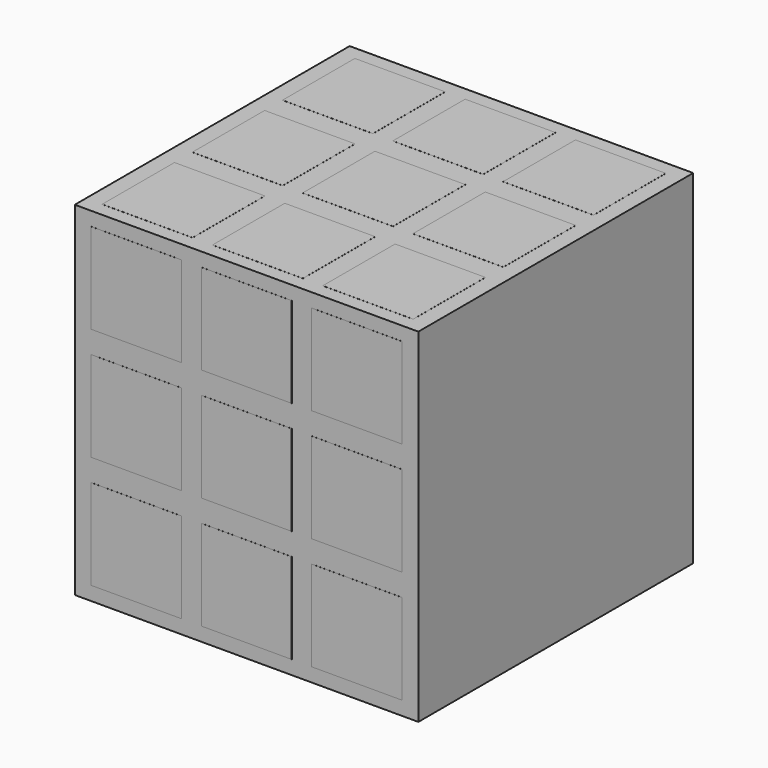
from build123d import *

# Parameters (mm, degrees)
F0_W     = 57
F0_H     = 57
F1_DEPTH = 57
F2_W     = 15
F2_H     = 15
F3_DEPTH = 0.01
F4_W     = 15
F4_H     = 15
F5_DEPTH = 0.01
F6_W     = 15
F6_H     = 15
F7_DEPTH = 0.01


with BuildPart() as f1:
    # F0 (on Front) → F1 (new body)
    with BuildSketch(Plane.XZ):
        with Locations((-29.06329, -5.599806)):
            Rectangle(F0_W, F0_H)
    extrude(amount=F1_DEPTH)

    # F2 (on face) → F3 (join)
    with BuildSketch(Plane.XY.offset(22.900194)):
        with Locations((-10.76329, -9.8)):
            Rectangle(F2_W, F2_H)
        with Locations((-10.76329, -28.5)):
            Rectangle(F2_W, F2_H)
        with Locations((-10.76329, -47.2)):
            Rectangle(F2_W, F2_H)
        with Locations((-29.06329, -47.2)):
            Rectangle(F2_W, F2_H)
        with Locations((-29.06329, -28.5)):
            Rectangle(F2_W, F2_H)
        with Locations((-29.06329, -9.8)):
            Rectangle(F2_W, F2_H)
        with Locations((-47.36329, -47.2)):
            Rectangle(F2_W, F2_H)
        with Locations((-47.36329, -28.5)):
            Rectangle(F2_W, F2_H)
        with Locations((-47.36329, -9.8)):
            Rectangle(F2_W, F2_H)
    extrude(amount=F3_DEPTH)

    # F4 (on face) → F5 (join)
    with BuildSketch(Plane.XZ.offset(57)):
        with Locations((-10.76329, 13.100194)):
            Rectangle(F4_W, F4_H)
        with Locations((-10.76329, -5.599806)):
            Rectangle(F4_W, F4_H)
        with Locations((-10.76329, -24.299806)):
            Rectangle(F4_W, F4_H)
        with Locations((-29.06329, -24.299806)):
            Rectangle(F4_W, F4_H)
        with Locations((-29.06329, -5.599806)):
            Rectangle(F4_W, F4_H)
        with Locations((-29.06329, 13.100194)):
            Rectangle(F4_W, F4_H)
        with Locations((-47.36329, -24.299806)):
            Rectangle(F4_W, F4_H)
        with Locations((-47.36329, -5.599806)):
            Rectangle(F4_W, F4_H)
        with Locations((-47.36329, 13.100194)):
            Rectangle(F4_W, F4_H)
    extrude(amount=F5_DEPTH)

    # F6 (on face) → F7 (join)
    with BuildSketch(Plane(origin=(-57.56329, 0, 0), x_dir=(0, -1, 0), z_dir=(-1, 0, 0))):
        with Locations((46.8, 13.272529)):
            Rectangle(F6_W, F6_H)
        with Locations((46.8, -5.427471)):
            Rectangle(F6_W, F6_H)
        with Locations((46.8, -24.127471)):
            Rectangle(F6_W, F6_H)
        with Locations((28.5, -24.127471)):
            Rectangle(F6_W, F6_H)
        with Locations((28.5, -5.427471)):
            Rectangle(F6_W, F6_H)
        with Locations((28.5, 13.272529)):
            Rectangle(F6_W, F6_H)
        with Locations((10.2, -24.127471)):
            Rectangle(F6_W, F6_H)
        with Locations((10.2, -5.427471)):
            Rectangle(F6_W, F6_H)
        with Locations((10.2, 13.272529)):
            Rectangle(F6_W, F6_H)
    extrude(amount=F7_DEPTH)


solid = f1.part
